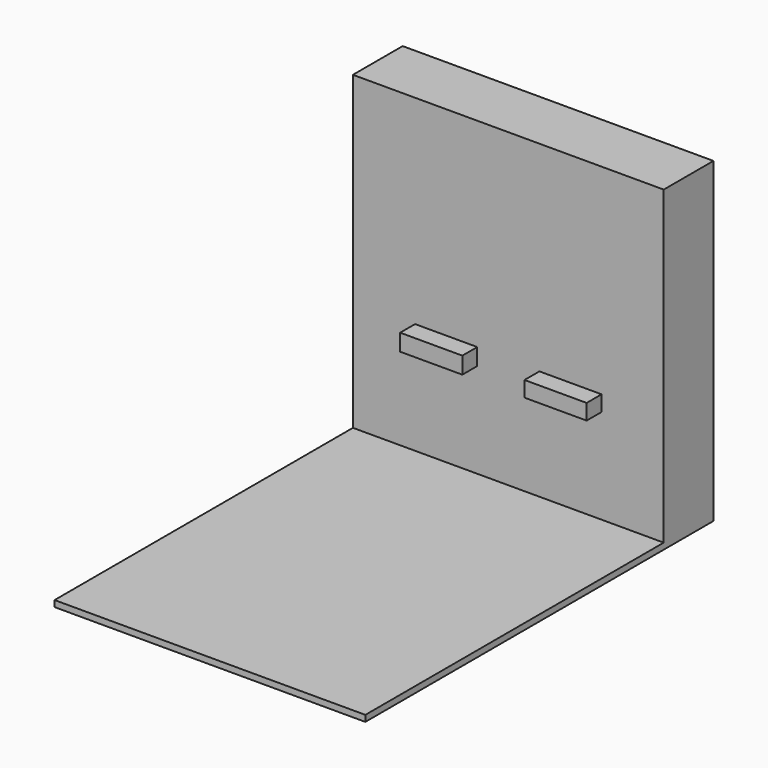
from build123d import *

# Parameters (mm, degrees)
F0_W     = 127
F0_H     = 177.8
F1_DEPTH = 2.54
F2_W     = 127
F2_H     = 25.4
F3_DEPTH = 127
F4_W     = 25.4
F4_H     = 6.849984
F4_H_2   = 6.360701
F5_DEPTH = 7.62


with BuildPart() as f1:
    # F0 (on Top) → F1 (new body)
    with BuildSketch(Plane.XY):
        Rectangle(F0_W, F0_H)
    extrude(amount=-F1_DEPTH)

    # F2 (on face) → F3 (join)
    with BuildSketch(Plane.XY):
        with Locations((0, 76.2)):
            Rectangle(F2_W, F2_H)
    extrude(amount=F3_DEPTH)

    # F4 (on face) → F5 (join)
    with BuildSketch(Plane.XZ.offset(-63.5)):
        with Locations((-25.4, 42.159992)):
            Rectangle(F4_W, F4_H)
        with Locations((25.4, 41.915351)):
            Rectangle(F4_W, F4_H_2)
    extrude(amount=F5_DEPTH)


solid = f1.part
